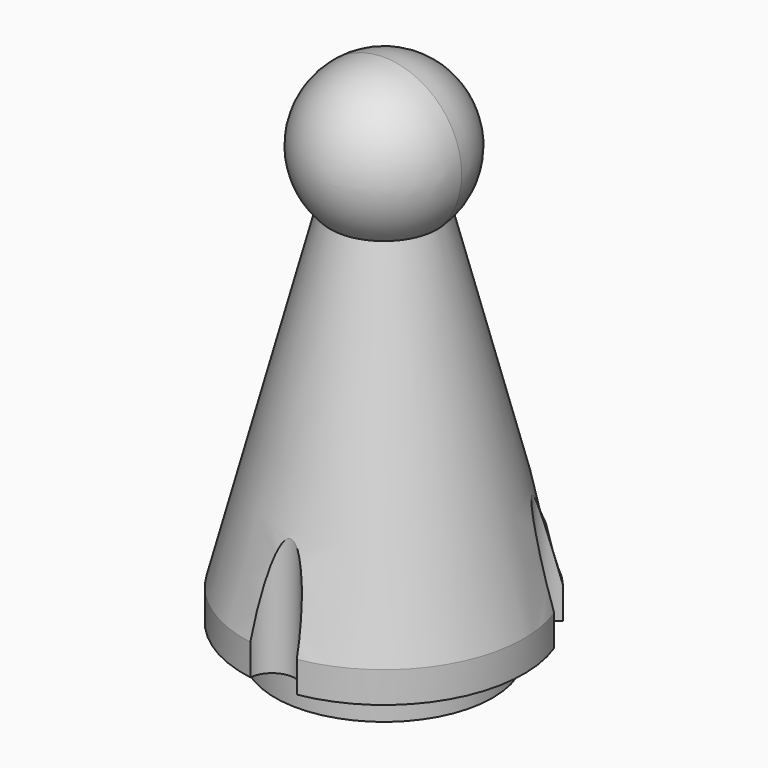
from build123d import *

# Parameters (mm, degrees)
F0_R      = 7
F1_DEPTH  = 2
F2_R      = 9
F2_R_2    = 7
F3_DEPTH  = 2
F3_FACE_R = 9
F5_R      = 2.5
F10_DEPTH = 32.001


with BuildPart() as f1:
    # F0 (on Top) → F1 (new body)
    with BuildSketch(Plane.XY):
        Circle(F0_R)
    extrude(amount=F1_DEPTH)

    # F2 (on face) → F3 (join)
    with BuildSketch(Plane.XY.offset(2)):
        Circle(F2_R)
        Circle(F2_R_2, mode=Mode.SUBTRACT)
        Circle(F2_R_2)
    extrude(amount=F3_DEPTH)

    # F3_face (on face) → F6 section 0
    with BuildSketch(Plane.XY.offset(4)):
        Circle(F3_FACE_R)
    # F5 (on offset) → F6 section 1
    with BuildSketch(Plane.XY.offset(29)):
        Circle(F5_R)
    loft()

    # F7 (on face) → F8 (revolve)
    with BuildSketch(Plane.XY.offset(29)):
        with BuildLine():
            ThreePointArc((0, -5), (3.5355339059, -3.5355339059), (5, 0))
            ThreePointArc((5, 0), (3.5355339059, 3.5355339059), (0, 5))
            Line((0, 5), (0, 2.5))
            ThreePointArc((0, 2.5), (1.767766953, 1.767766953), (2.5, 0))
            ThreePointArc((2.5, 0), (1.767766953, -1.767766953), (0, -2.5))
            Line((0, -2.5), (0, -5))
        make_face()
    revolve(axis=Axis((0, 0, 29), (0, -1, 0)))

    # F9 (on face) → F10 (cut, through all)
    with BuildSketch(Plane(origin=(0, 0, 2), x_dir=(1, 0, 0), z_dir=(0, 0, -1))):
        with BuildLine():
            ThreePointArc((1.4947825929, 8.875), (0, 9), (-1.4947825929, 8.875))
            ThreePointArc((-1.4947825929, 8.875), (0, 7.5), (1.4947825929, 8.875))
        make_face()
        with BuildLine():
            ThreePointArc((1.4947825929, 8.875), (1.4986950806, 8.937445581), (1.5, 9))
            ThreePointArc((1.5, 9), (-0.062554419, 10.4986950806), (-1.4947825929, 8.875))
            ThreePointArc((-1.4947825929, 8.875), (0, 9), (1.4947825929, 8.875))
        make_face()
        with BuildLine():
            ThreePointArc((6.9385841621, -5.7320196986), (7.7942286341, -4.5), (8.433366755, -3.1429803014))
            ThreePointArc((8.433366755, -3.1429803014), (6.4951905284, -3.75), (6.9385841621, -5.7320196986))
        make_face()
        with BuildLine():
            ThreePointArc((9.2942286341, -4.5), (9.0608594369, -3.6964787437), (8.433366755, -3.1429803014))
            ThreePointArc((8.433366755, -3.1429803014), (7.7942286341, -4.5), (6.9385841621, -5.7320196986))
            ThreePointArc((6.9385841621, -5.7320196986), (8.4894024584, -5.8291852218), (9.2942286341, -4.5))
        make_face()
        with BuildLine():
            ThreePointArc((-6.2942286341, -4.5), (-6.9907073778, -3.2333691972), (-8.433366755, -3.1429803014))
            ThreePointArc((-8.433366755, -3.1429803014), (-7.7942286341, -4.5), (-6.9385841621, -5.7320196986))
            ThreePointArc((-6.9385841621, -5.7320196986), (-6.4650434122, -5.1951738244), (-6.2942286341, -4.5))
        make_face()
        with BuildLine():
            ThreePointArc((-6.9385841621, -5.7320196986), (-7.7942286341, -4.5), (-8.433366755, -3.1429803014))
            ThreePointArc((-8.433366755, -3.1429803014), (-9.0932667397, -5.25), (-6.9385841621, -5.7320196986))
        make_face()
    extrude(amount=-F10_DEPTH, mode=Mode.SUBTRACT)


solid = f1.part
